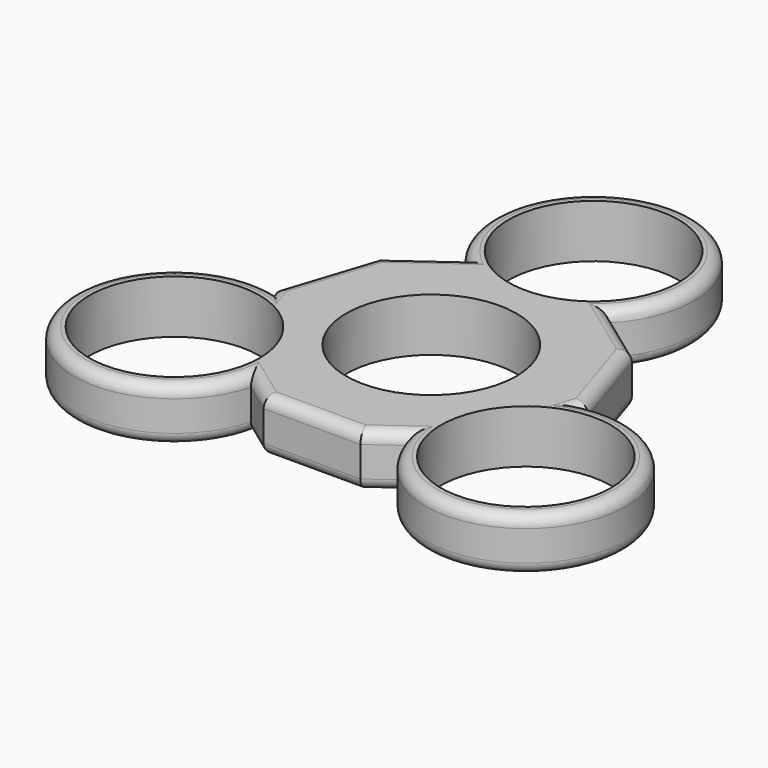
from build123d import *

# Parameters (mm, degrees)
F0_R     = 11.2
F1_DEPTH = 7
F2_R     = 1.5
F3_R     = 1.5


with BuildPart() as f1:
    # F0 (on Top) → F1 (new body)
    with BuildSketch(Plane.XY):
        with BuildLine():
            Line((16.696593, 12.130785), (9.393638, 17.436692))
            ThreePointArc((9.393638, 17.436692), (0, 39.910287), (-9.393638, 17.436692))
            Line((-9.393638, 17.436692), (-16.696593, 12.130785))
            Line((-16.696593, 12.130785), (-20.638124, 0))
            Line((-20.638124, 0), (-20.501718, -0.419814))
            ThreePointArc((-20.501718, -0.419814), (-34.343983, -20.321251), (-10.369829, -16.727447))
            Line((-10.369829, -16.727447), (-6.377531, -19.628022))
            Line((-6.377531, -19.628022), (6.377531, -19.628022))
            Line((6.377531, -19.628022), (10.369829, -16.727447))
            ThreePointArc((10.369829, -16.727447), (34.343983, -20.321251), (20.501718, -0.419814))
            Line((20.501718, -0.419814), (20.638124, 0))
            Line((20.638124, 0), (16.696593, 12.130785))
        make_face()
        with Locations((-23.131787, -13.355143)):
            Circle(F0_R, mode=Mode.SUBTRACT)
        with Locations((23.131787, -13.355143)):
            Circle(F0_R, mode=Mode.SUBTRACT)
        Circle(F0_R, mode=Mode.SUBTRACT)
        with Locations((0, 26.710287)):
            Circle(F0_R, mode=Mode.SUBTRACT)
    extrude(amount=F1_DEPTH)

    # F2
    f2_edges = [f1.edges().sort_by_distance(p)[0] for p in [
        (0, -19.628022, 7),
        (8.37368, -18.177735, 7),
        (-8.37368, -18.177735, 7),
        (-18.667358, 6.065392, 7),
        (-13.045115, 14.783738, 7),
        (18.667358, 6.065392, 7),
        (13.045115, 14.783738, 7),
        (0, 39.910287, 7),
        (-34.343983, -20.321251, 7),
        (34.343983, -20.321251, 7),
        (20.569921, -0.209907, 7),
        (-20.569921, -0.209907, 7),
    ]]
    fillet(f2_edges, radius=F2_R)

    # F3
    f3_edges = [f1.edges().sort_by_distance(p)[0] for p in [
        (13.045115, 14.783738, 0),
        (18.667358, 6.065392, 0),
        (34.343983, -20.321251, 0),
        (20.569921, -0.209907, 0),
        (-13.045115, 14.783738, 0),
        (-34.343983, -20.321251, 0),
        (-20.569921, -0.209907, 0),
        (-18.667358, 6.065392, 0),
        (0, -19.628022, 0),
        (-8.37368, -18.177735, 0),
        (8.37368, -18.177735, 0),
        (0, 39.910287, 0),
    ]]
    fillet(f3_edges, radius=F3_R)


solid = f1.part
